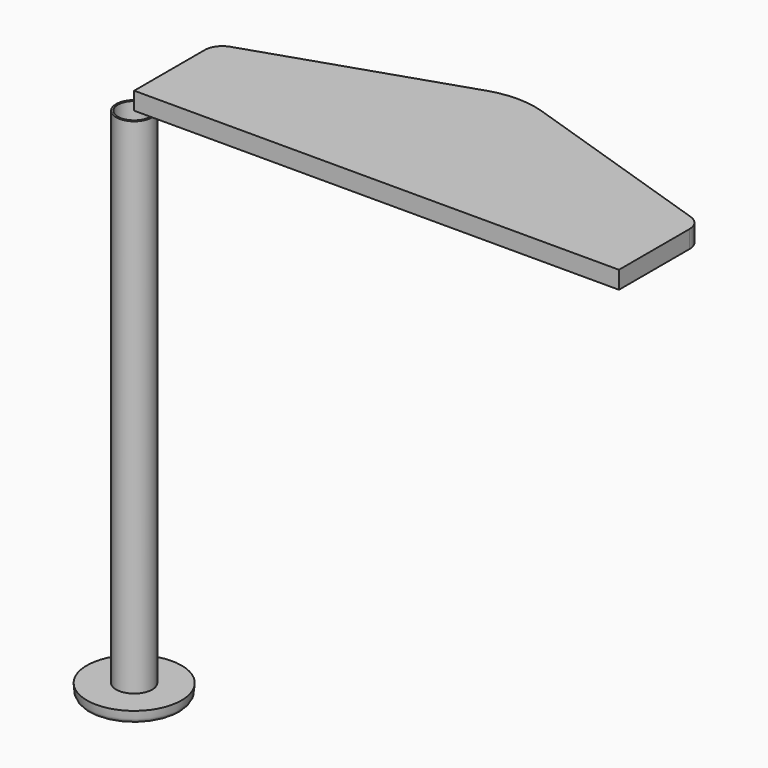
from build123d import *

# Parameters (mm, degrees)
SKETCH003_R  = 10.25
PAD001_DEPTH = 285.75
SKETCH004_R  = 9.25
HOLE_DEPTH   = 285.751
POCKET_DEPTH = 5.85
SKETCH002_R  = 9.25
PAD_DEPTH    = 5
PAD002_DEPTH = 10


with BuildPart() as spool:
    # Sketch003 → Pad001 (new body)
    with BuildSketch(Plane.XY):
        Circle(SKETCH003_R)
    extrude(amount=-PAD001_DEPTH)

    # Sketch004 (on Face3 of Pad001) → Hole (cut, through all)
    with BuildSketch(Plane(origin=(0, 0, -285.75), x_dir=(1, 0, 0), z_dir=(0, 0, -1))):
        Circle(SKETCH004_R)
    extrude(amount=-HOLE_DEPTH, mode=Mode.SUBTRACT)


with BuildPart() as endcap:
    # Sketch → Revolution (revolve)
    with BuildSketch(Plane.XZ):
        with BuildLine():
            Line((0, 0), (0, 7.85))
            Line((0, 7.85), (5.5, 7.85))
            Line((5.5, 7.85), (5.5, 11))
            Line((5.5, 11), (7.15, 11))
            ThreePointArc((7.15, 11), (8.93664793, 6.6866493396), (13.2499980066, 4.9))
            add(Edge.make_bspline(
                [(13.2499980066, 4.9), (17.3499980066, 4.9), (18.65, 7), (22.75, 7)],
                knots=[0, 0, 0, 0, 9.7293370792, 9.7293370792, 9.7293370792, 9.7293370792], degree=3))
            add(Edge.make_bspline(
                [(26.85, 0), (26.85, 3.5), (26.85, 7), (22.75, 7)],
                knots=[0, 0, 0, 0, 5.9288425557, 5.9288425557, 5.9288425557, 5.9288425557], degree=3))
            Line((26.85, 0), (0, 0))
        make_face()
    revolve(axis=Axis((0, 0, 0), (0, 0, 1)))

    # Sketch001 (on Face1 of Revolution) → Pocket (cut)
    with BuildSketch(Plane(origin=(0, 0, 7.85), x_dir=(-1, 0, 0), z_dir=(0, 0, 1))):
        with BuildLine():
            Line((1.75, -5.2141634037), (1.75, 5.2141634037))
            ThreePointArc((1.75, 5.2141634037), (0, 5.5), (-1.75, 5.2141634037))
            Line((-1.75, -5.2141634037), (-1.75, 5.2141634037))
            ThreePointArc((-1.75, -5.2141634037), (0, -5.5), (1.75, -5.2141634037))
        make_face()
    extrude(amount=-POCKET_DEPTH, mode=Mode.SUBTRACT)

    # Sketch002 → Pad (join)
    with BuildSketch(Plane.XY):
        Circle(SKETCH002_R)
    extrude(amount=-PAD_DEPTH)


with BuildPart() as part_mirroring:
    # Part__Mirroring: instance of EndCap
    add(endcap.part.mirror(Plane(origin=(0, 0, -142.875), x_dir=(0, 1, 0), z_dir=(0, 0, 1))))


with BuildPart() as motormount:
    # Sketch005 → Pad002 (new body)
    with BuildSketch(Plane.XY):
        with BuildLine():
            Line((0, 0), (275, 0))
            Line((275, 0), (275, 50))
            ThreePointArc((275, 50), (273.1047069355, 55.8577918613), (268.137254902, 59.4951372649))
            Line((153.1862745098, 97.4756863247), (268.137254902, 59.4951372649))
            ThreePointArc((153.1862745098, 97.4756863247), (137.5, 100), (121.8137254902, 97.4756863247))
            Line((6.862745098, 59.4951372649), (121.8137254902, 97.4756863247))
            ThreePointArc((6.862745098, 59.4951372649), (1.8952930645, 55.8577918613), (0, 50))
            Line((0, 0), (0, 50))
        make_face()
    extrude(amount=PAD002_DEPTH)


solid = Compound([spool.part, part_mirroring.part, motormount.part])
